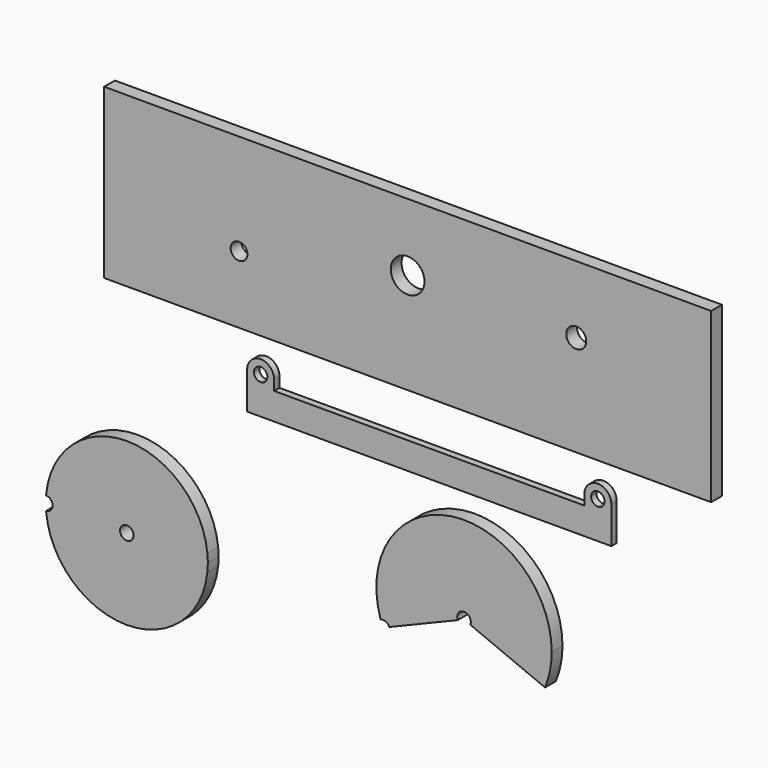
from build123d import *

# Parameters (mm, degrees)
F0_R     = 2.556390942
F1_DEPTH = 5.08
F2_DEPTH = 5.08
F4_DEPTH = 2.54
F5_W     = 228.6
F5_H     = 63.4238
F5_R     = 3.156654388
F5_R_2   = 6.35
F5_R_3   = 3.7668748596
F6_DEPTH = 5.08


with BuildPart() as f1:
    # F0 (on Front) → F1 (new body)
    with BuildSketch(Plane.XZ):
        with BuildLine():
            Line((-157.3393124845, -9.4448776781), (-96.6606875155, -9.4448776781))
            ThreePointArc((-96.6606875155, -9.4448776781), (-127, 17.8816), (-157.3393124845, -9.4448776781))
        make_face()
        with BuildLine():
            ThreePointArc((-157.340133413, -15.7948776781), (-127, -43.1292), (-96.659866587, -15.7948776781))
            Line((-96.659866587, -15.7948776781), (-157.340133413, -15.7948776781))
        make_face()
        with BuildLine():
            ThreePointArc((-96.4946, -12.6238), (-96.5361501758, -11.0321709452), (-96.6606875155, -9.4448776781))
            Line((-96.6606875155, -9.4448776781), (-157.3393124845, -9.4448776781))
            ThreePointArc((-157.3393124845, -9.4448776781), (-157.370221334, -9.7551617721), (-157.3979569515, -10.0657455958))
            ThreePointArc((-157.3979569515, -10.0657455958), (-155.6601625762, -10.8506308246), (-154.9490088059, -12.6198776781))
            ThreePointArc((-154.9490088059, -12.6198776781), (-155.6603900775, -14.3893617737), (-157.3986137652, -15.1740373054))
            ThreePointArc((-157.3986137652, -15.1740373054), (-157.3709600258, -15.4846069269), (-157.340133413, -15.7948776781))
            Line((-157.340133413, -15.7948776781), (-96.659866587, -15.7948776781))
            ThreePointArc((-96.659866587, -15.7948776781), (-96.5359446644, -14.2114906724), (-96.4946, -12.6238))
        make_face()
        with Locations((-127, -12.6238)):
            Circle(F0_R, mode=Mode.SUBTRACT)
        with BuildLine():
            ThreePointArc((-96.4946, -12.6238), (-96.5361501758, -11.0321709452), (-96.6606875155, -9.4448776781))
            Line((-96.6606875155, -9.4448776781), (-157.3393124845, -9.4448776781))
            ThreePointArc((-157.3393124845, -9.4448776781), (-157.370221334, -9.7551617721), (-157.3979569515, -10.0657455958))
            ThreePointArc((-157.3979569515, -10.0657455958), (-155.6601625762, -10.8506308246), (-154.9490088059, -12.6198776781))
            ThreePointArc((-154.9490088059, -12.6198776781), (-155.6603900775, -14.3893617737), (-157.3986137652, -15.1740373054))
            ThreePointArc((-157.3986137652, -15.1740373054), (-157.3709600258, -15.4846069269), (-157.340133413, -15.7948776781))
            Line((-157.340133413, -15.7948776781), (-96.659866587, -15.7948776781))
            ThreePointArc((-96.659866587, -15.7948776781), (-96.5359446644, -14.2114906724), (-96.4946, -12.6238))
        make_face()
        with Locations((-127, -12.6238)):
            Circle(F0_R, mode=Mode.SUBTRACT)
        with BuildLine():
            Line((-157.3393124845, -9.4448776781), (-96.6606875155, -9.4448776781))
            ThreePointArc((-96.6606875155, -9.4448776781), (-127, 17.8816), (-157.3393124845, -9.4448776781))
        make_face()
        with BuildLine():
            ThreePointArc((-157.340133413, -15.7948776781), (-127, -43.1292), (-96.659866587, -15.7948776781))
            Line((-96.659866587, -15.7948776781), (-157.340133413, -15.7948776781))
        make_face()
    extrude(amount=F1_DEPTH)


with BuildPart() as f2:
    # F0 (on Front) → F2 (new body)
    with BuildSketch(Plane.XZ):
        with BuildLine():
            ThreePointArc((30.5065021635, -12.6362069367), (32.3855299589, -6.441882433), (33.02, 0))
            ThreePointArc((33.02, 0), (-4.7725522624, 32.6732787596), (-31.6403964205, -9.4448776781))
            Line((-31.6403964205, -9.4448776781), (-27.3315021635, -9.4448776781))
            Line((-27.3315021635, -9.4448776781), (-27.3315021635, -11.3210788762))
            Line((-27.3315021635, -11.3210788762), (-2.3617972684, -0.9782884601))
            ThreePointArc((-2.3617972684, -0.9782884601), (-0.4987271321, 2.5072706068), (2.556390942, 0))
            ThreePointArc((2.556390942, 0), (2.5072706068, -0.4987271321), (2.3617972684, -0.9782884601))
            Line((2.3617972684, -0.9782884601), (30.5065021635, -12.6362069367))
        make_face()
        with BuildLine():
            Line((-27.3315021635, -9.4448776781), (-31.6403964205, -9.4448776781))
            ThreePointArc((-31.6403964205, -9.4448776781), (-31.5190113829, -9.8423737707), (-31.3926328459, -10.238310554))
            ThreePointArc((-31.3926328459, -10.238310554), (-29.4826761863, -10.2937904459), (-28.1447048951, -11.6579184766))
            Line((-28.1447048951, -11.6579184766), (-27.3315021635, -11.3210788762))
            Line((-27.3315021635, -11.3210788762), (-27.3315021635, -9.4448776781))
        make_face()
    extrude(amount=F2_DEPTH)


with BuildPart() as f4:
    # F3 (on Front) → F4 (new body)
    with BuildSketch(Plane.XZ):
        with BuildLine():
            Line((-73.5525222105, 54.6281948608), (-76.0925222105, 54.6281948608))
            ThreePointArc((-76.0925222105, 54.6281948608), (-76.8364709863, 52.8321436366), (-78.6325222105, 52.0881948608))
            ThreePointArc((-78.6325222105, 52.0881948608), (-80.4285734347, 52.8321436366), (-81.1725222105, 54.6281948608))
            Line((-81.1725222105, 54.6281948608), (-83.7125222105, 54.6281948608))
            ThreePointArc((-83.7125222105, 54.6281948608), (-78.6325222105, 49.5481948608), (-73.5525222105, 54.6281948608))
        make_face()
        with BuildLine():
            Line((-73.5525222105, 50.8181948608), (-73.5525222105, 54.6281948608))
            ThreePointArc((-73.5525222105, 54.6281948608), (-78.6325222105, 49.5481948608), (-83.7125222105, 54.6281948608))
            Line((-83.7125222105, 54.6281948608), (-83.7125222105, 40.6581948608))
            Line((-83.7125222105, 40.6581948608), (53.4474777895, 40.6581948608))
            Line((53.4474777895, 40.6581948608), (53.4474777895, 54.6281948608))
            ThreePointArc((53.4474777895, 54.6281948608), (48.3674777895, 49.5481948608), (43.2874777895, 54.6281948608))
            Line((43.2874777895, 54.6281948608), (43.2874777895, 50.8181948608))
            Line((43.2874777895, 50.8181948608), (-73.5525222105, 50.8181948608))
        make_face()
        with BuildLine():
            Line((45.8274777895, 54.6281948608), (43.2874777895, 54.6281948608))
            ThreePointArc((43.2874777895, 54.6281948608), (48.3674777895, 49.5481948608), (53.4474777895, 54.6281948608))
            Line((53.4474777895, 54.6281948608), (50.9074777895, 54.6281948608))
            ThreePointArc((50.9074777895, 54.6281948608), (50.1635290137, 52.8321436366), (48.3674777895, 52.0881948608))
            ThreePointArc((48.3674777895, 52.0881948608), (46.5714265653, 52.8321436366), (45.8274777895, 54.6281948608))
        make_face()
        with BuildLine():
            Line((-73.5525222105, 50.8181948608), (-73.5525222105, 54.6281948608))
            ThreePointArc((-73.5525222105, 54.6281948608), (-78.6325222105, 49.5481948608), (-83.7125222105, 54.6281948608))
            Line((-83.7125222105, 54.6281948608), (-83.7125222105, 40.6581948608))
            Line((-83.7125222105, 40.6581948608), (53.4474777895, 40.6581948608))
            Line((53.4474777895, 40.6581948608), (53.4474777895, 54.6281948608))
            ThreePointArc((53.4474777895, 54.6281948608), (48.3674777895, 49.5481948608), (43.2874777895, 54.6281948608))
            Line((43.2874777895, 54.6281948608), (43.2874777895, 50.8181948608))
            Line((43.2874777895, 50.8181948608), (-73.5525222105, 50.8181948608))
        make_face()
        with BuildLine():
            ThreePointArc((-81.1725222105, 54.6281948608), (-78.6325222105, 57.1681948608), (-76.0925222105, 54.6281948608))
            Line((-76.0925222105, 54.6281948608), (-73.5525222105, 54.6281948608))
            ThreePointArc((-73.5525222105, 54.6281948608), (-78.6325222105, 59.7081948608), (-83.7125222105, 54.6281948608))
            Line((-83.7125222105, 54.6281948608), (-81.1725222105, 54.6281948608))
        make_face()
        with BuildLine():
            ThreePointArc((53.4474777895, 54.6281948608), (48.3674777895, 59.7081948608), (43.2874777895, 54.6281948608))
            Line((43.2874777895, 54.6281948608), (45.8274777895, 54.6281948608))
            ThreePointArc((45.8274777895, 54.6281948608), (48.3674777895, 57.1681948608), (50.9074777895, 54.6281948608))
            Line((50.9074777895, 54.6281948608), (53.4474777895, 54.6281948608))
        make_face()
    extrude(amount=F4_DEPTH)


with BuildPart() as f6:
    # F5 (on Front) → F6 (new body)
    with BuildSketch(Plane.XZ):
        with Locations((-21.22993536, 100.850559667)):
            Rectangle(F5_W, F5_H)
        with Locations((-84.72993536, 94.538659667)):
            Circle(F5_R, mode=Mode.SUBTRACT)
        with Locations((-21.22993536, 107.162459667)):
            Circle(F5_R_2, mode=Mode.SUBTRACT)
        with Locations((42.27006464, 107.162459667)):
            Circle(F5_R_3, mode=Mode.SUBTRACT)
    extrude(amount=F6_DEPTH)


solid = Compound([f1.part, f2.part, f4.part, f6.part])
